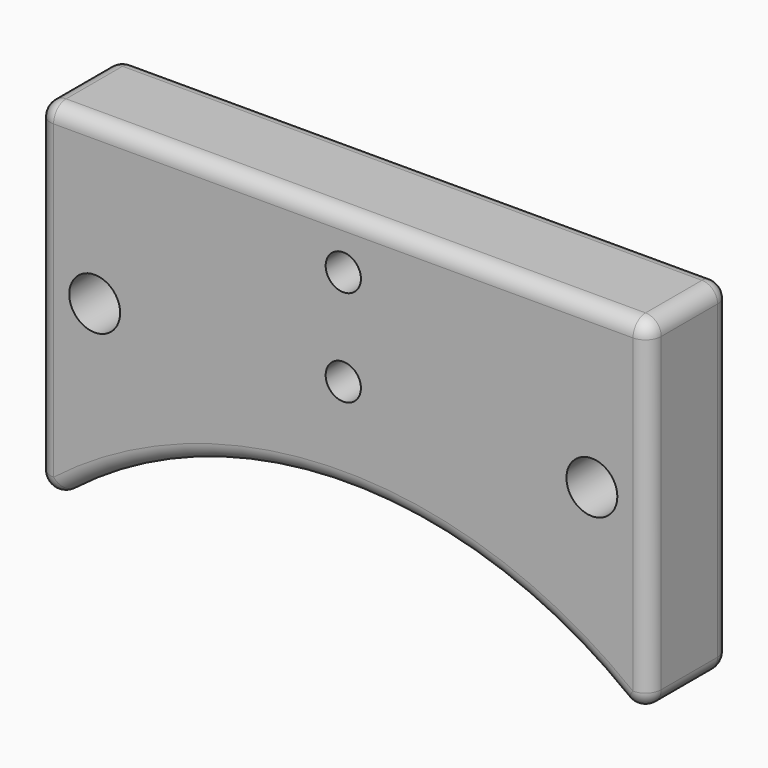
from build123d import *

# Parameters (mm, degrees)
F0_R     = 3.25
F0_R_2   = 2.25
F1_DEPTH = 13
F2_R     = 2
F3_R     = 2


with BuildPart() as f1:
    # F0 (on Front) → F1 (new body)
    with BuildSketch(Plane.XZ):
        with BuildLine():
            Line((-39, 0), (-39, -46))
            ThreePointArc((-39, -46), (0, -31), (39, -46))
            Line((39, -46), (39, 0))
            Line((39, 0), (-39, 0))
        make_face()
        with Locations((-31.75, -20.5)):
            Circle(F0_R, mode=Mode.SUBTRACT)
        with Locations((0, -18.95)):
            Circle(F0_R_2, mode=Mode.SUBTRACT)
        with Locations((31.75, -20.5)):
            Circle(F0_R, mode=Mode.SUBTRACT)
        with Locations((0, -6.65)):
            Circle(F0_R_2, mode=Mode.SUBTRACT)
    extrude(amount=-F1_DEPTH)

    # F2
    f2_edges = [f1.edges().sort_by_distance(p)[0] for p in [
        (-39, 6.5, -46),
        (39, 6.5, -46),
    ]]
    fillet(f2_edges, radius=F2_R)

    # F3
    f3_edges = [f1.edges().sort_by_distance(p)[0] for p in [
        (-39, 6.5, 0),
        (39, 6.5, 0),
        (0, 0, 0),
        (0, 13, 0),
        (-39, 0, -20.856369),
        (-39, 6.5, -41.712739),
        (-39, 13, -20.856369),
    ]]
    fillet(f3_edges, radius=F3_R)


solid = f1.part
